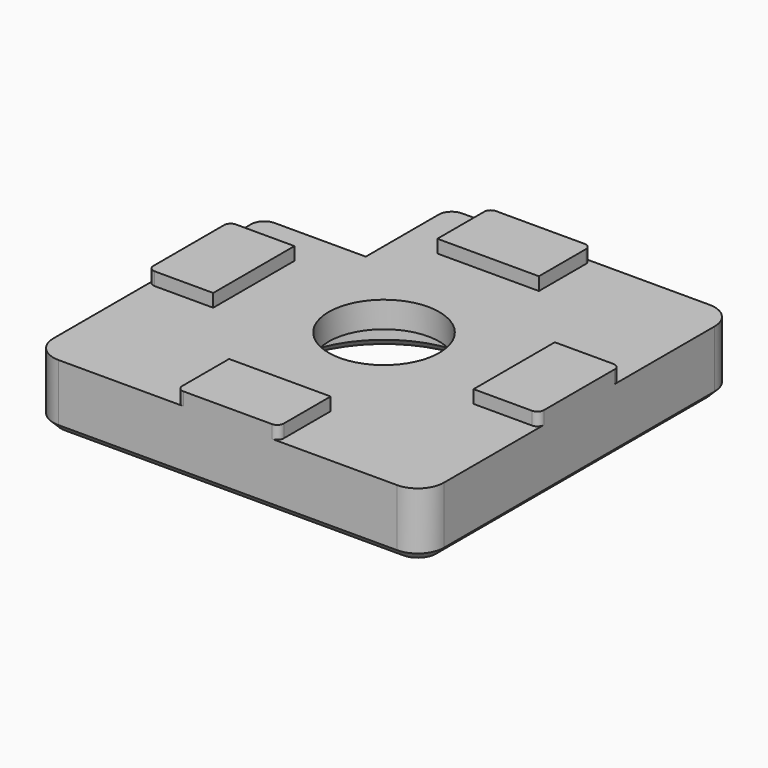
from build123d import *

# Parameters (mm, degrees)
PAD_DEPTH            = 5
SKETCH001_R          = 4.25
POCKET_DEPTH         = 5.001
SKETCH002_R          = 7.5
POCKET001_DEPTH      = 3
SKETCH003_W          = 7.8
SKETCH003_H          = 5
SKETCH003_W_2        = 5
SKETCH003_H_2        = 7.8
PAD001_DEPTH         = 1
FILLET_R             = 0.5
FILLET001_R          = 2
FILLET002_R          = 1
CHAMFER_SIZE         = 0.6
BODY_PLACEMENT_ANGLE = 180


with BuildPart() as part:
    # Sketch → Pad (new body)
    with BuildSketch(Plane.XY):
        Polygon((0, 0), (0, 30), (22, 30), (22, 22), (30, 22), (30, 0), align=None)
    extrude(amount=PAD_DEPTH)

    # Sketch001 (on Face8 of Pad) → Pocket (cut, through all)
    with BuildSketch(Plane.XY.offset(5)):
        with Locations((15, 15)):
            Circle(SKETCH001_R)
    extrude(amount=-POCKET_DEPTH, mode=Mode.SUBTRACT)

    # Sketch002 (on Face5 of Pocket) → Pocket001 (cut)
    with BuildSketch(Plane.XY.offset(5)):
        with Locations((15, 15)):
            Circle(SKETCH002_R)
    extrude(amount=-POCKET001_DEPTH, mode=Mode.SUBTRACT)

    # Sketch003 (on Face4 of Pocket001) → Pad001 (join)
    with BuildSketch(Plane(origin=(0, 0, 0), x_dir=(1, 0, 0), z_dir=(0, 0, -1))):
        with Locations((15, -2.5)):
            Rectangle(SKETCH003_W, SKETCH003_H)
        with Locations((15, -27.5)):
            Rectangle(SKETCH003_W, SKETCH003_H)
        with Locations((2.5, -15)):
            Rectangle(SKETCH003_W_2, SKETCH003_H_2)
        with Locations((27.5, -15)):
            Rectangle(SKETCH003_W_2, SKETCH003_H_2)
    extrude(amount=PAD001_DEPTH)

    # Fillet
    fillet_edges = [part.edges().sort_by_distance(p)[0] for p in [
        (18.9, 0, -0.5),
        (11.1, 0, -0.5),
        (0, 11.1, -0.5),
        (0, 18.9, -0.5),
        (11.1, 30, -0.5),
        (18.9, 30, -0.5),
        (30, 18.9, -0.5),
        (30, 11.1, -0.5),
    ]]
    fillet(fillet_edges, radius=FILLET_R)

    # Fillet001
    fillet001_edges = [part.edges().sort_by_distance(p)[0] for p in [
        (0, 30, 2.5),
        (0, 0, 2.5),
        (30, 0, 2.5),
    ]]
    fillet(fillet001_edges, radius=FILLET001_R)

    # Fillet002
    fillet002_edges = [part.edges().sort_by_distance(p)[0] for p in [
        (22, 30, 2.5),
        (30, 22, 2.5),
    ]]
    fillet(fillet002_edges, radius=FILLET002_R)

    # Chamfer
    chamfer_edges = [part.edges().sort_by_distance(p)[0] for p in [
        (11.5, 30, 5),
        (21.707107, 29.707107, 5),
        (0.585786, 29.414214, 5),
        (22, 25.5, 5),
        (0, 15, 5),
        (25.5, 22, 5),
        (0.585786, 0.585786, 5),
        (29.707107, 21.707107, 5),
        (15, 0, 5),
        (30, 11.5, 5),
        (29.414214, 0.585786, 5),
        (7.5, 15, 5),
    ]]
    chamfer(chamfer_edges, length=CHAMFER_SIZE)


with BuildPart() as part_1:
    # Body placement: moved
    add(part.part.rotate(Axis((0, 0, 0), (0, 1, 0)), BODY_PLACEMENT_ANGLE))


solid = part_1.part
